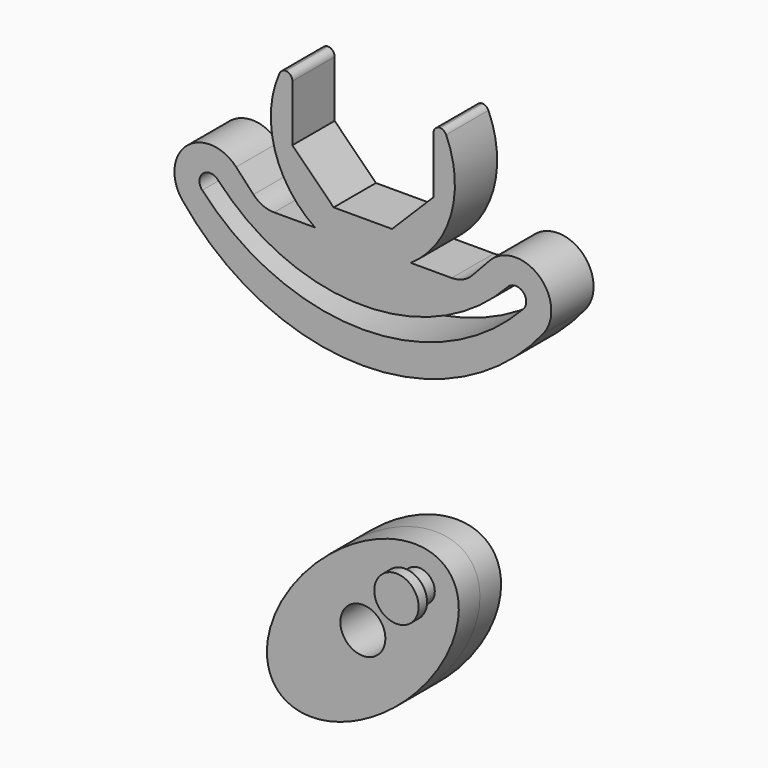
from build123d import *

# Parameters (mm, degrees)
F1_DEPTH = 7.5
F2_R     = 6.3841546586
F3_DEPTH = 7.5
F5_R     = 4.4804621584
F6_DEPTH = 5
F7_R     = 6.2856396219
F8_DEPTH = 3


with BuildPart() as f1:
    # F0 (on Front) → F1 (new body, symmetric)
    with BuildSketch(Plane.XZ):
        with BuildLine():
            ThreePointArc((21.9047395452, 9.7045784378), (20.5524985476, 9.0869713827), (20, 7.7068483645))
            Line((20, 7.7068483645), (20, -8.2842712475))
            Line((20, -8.2842712475), (8.2842712475, -20))
            Line((8.2842712475, -20), (-8.2842712475, -20))
            Line((-8.2842712475, -20), (-20, -8.2842712475))
            Line((-20, -8.2842712475), (-20, 7.7068483645))
            ThreePointArc((-20, 7.7068483645), (-20.5524985476, 9.0869713827), (-21.9047395452, 9.7045784378))
            ThreePointArc((-21.9047395452, 9.7045784378), (-22.9365719164, 9.35901717), (-23.6347592734, 8.5243765009))
            ThreePointArc((-23.6347592734, 8.5243765009), (-25.033885906, -10.9389903885), (-13.5862735472, -26.7419134499))
            Line((-13.5862735472, -26.7419134499), (-25.1937044334, -26.7419134499))
            ThreePointArc((-25.1937044334, -26.7419134499), (-28.385006539, -26.0778244956), (-31.0464815251, -24.1958111676))
            Line((-31.0464815251, -24.1958111676), (-35.9722022686, -18.9098401026))
            ThreePointArc((-35.9722022686, -18.9098401026), (-49.9691344844, -18.1412658309), (-51.2854205878, -32.0973472566))
            ThreePointArc((-51.2854205878, -32.0973472566), (0, -56.8402896954), (51.2854205878, -32.0973472566))
            ThreePointArc((51.2854205878, -32.0973472566), (49.9691344844, -18.1412658309), (35.9722022686, -18.9098401026))
            Line((35.9722022686, -18.9098401026), (31.0464815251, -24.1958111676))
            ThreePointArc((31.0464815251, -24.1958111676), (28.385006539, -26.0778244956), (25.1937044334, -26.7419134499))
            Line((25.1937044334, -26.7419134499), (13.5862735472, -26.7419134499))
            ThreePointArc((13.5862735472, -26.7419134499), (25.033885906, -10.9389903885), (23.6347592734, 8.5243765009))
            ThreePointArc((23.6347592734, 8.5243765009), (22.9365719164, 9.35901717), (21.9047395452, 9.7045784378))
        make_face()
        with BuildLine():
            ThreePointArc((45.5768205594, -27.8363255401), (0, -47.8192531196), (-45.5768205594, -27.8363255401))
            ThreePointArc((-45.5768205594, -27.8363255401), (-45.4028850988, -23.5972517668), (-41.1638113255, -23.7711872274))
            ThreePointArc((-41.1638113255, -23.7711872274), (0, -41.8192531196), (41.1638113255, -23.7711872274))
            ThreePointArc((41.1638113255, -23.7711872274), (45.4028850988, -23.5972517668), (45.5768205594, -27.8363255401))
        make_face(mode=Mode.SUBTRACT)
    extrude(amount=F1_DEPTH, both=True)


with BuildPart() as f1b:
    # F0 (on Front) → F1, piece 2 (new body, symmetric)
    with BuildSketch(Plane.XZ):
        with BuildLine():
            ThreePointArc((21.8094790904, 9.7068483645), (21.8571228382, 9.7062808023), (21.9047395452, 9.7045784378))
            ThreePointArc((21.9047395452, 9.7045784378), (21.9523562522, 9.7062808023), (22, 9.7068483645))
            Line((22, 9.7068483645), (21.8094790904, 9.7068483645))
        make_face()
    extrude(amount=F1_DEPTH, both=True)


with BuildPart() as f1c:
    # F0 (on Front) → F1, piece 3 (new body, symmetric)
    with BuildSketch(Plane.XZ):
        with BuildLine():
            ThreePointArc((-22, 9.7068483645), (-21.9523562522, 9.7062808023), (-21.9047395452, 9.7045784378))
            ThreePointArc((-21.9047395452, 9.7045784378), (-21.8571228382, 9.7062808023), (-21.8094790904, 9.7068483645))
            Line((-21.8094790904, 9.7068483645), (-22, 9.7068483645))
        make_face()
    extrude(amount=F1_DEPTH, both=True)


with BuildPart() as f3:
    # F2 (on Front) → F3 (new body, symmetric)
    with BuildSketch(Plane.XZ):
        with BuildLine():
            add(Edge.make_bspline(
                [(24.1837981973, -100.1404483236), (2.5107693841, -77.1811632893), (-22.9284135052, -122.9042167638), (-48.3675963946, -168.6272702382), (-1.2553846921, -145.863501798), (45.8568270105, -123.0997333579), (24.1837981973, -100.1404483236)],
                knots=[0, 0, 0, 2.0943951024, 2.0943951024, 4.1887902048, 4.1887902048, 6.2831853072, 6.2831853072, 6.2831853072], degree=2, weights=[1, 0.5, 1, 0.5, 1, 0.5, 1]))
        make_face()
        with Locations((0, -122.9693889618)):
            Circle(F2_R, mode=Mode.SUBTRACT)
    extrude(amount=F3_DEPTH, both=True)

    # F5 (on face) → F6 (join)
    with BuildSketch(Plane.XZ.offset(7.5)):
        with Locations((15.9343741834, -106.6242530942)):
            Circle(F5_R)
    extrude(amount=F6_DEPTH)

    # F7 (on face) → F8 (join)
    with BuildSketch(Plane.XZ.offset(12.5)):
        with Locations((15.9343741834, -106.6242530942)):
            Circle(F7_R)
    extrude(amount=F8_DEPTH)


solid = Compound([f1.part, f1b.part, f1c.part, f3.part])
